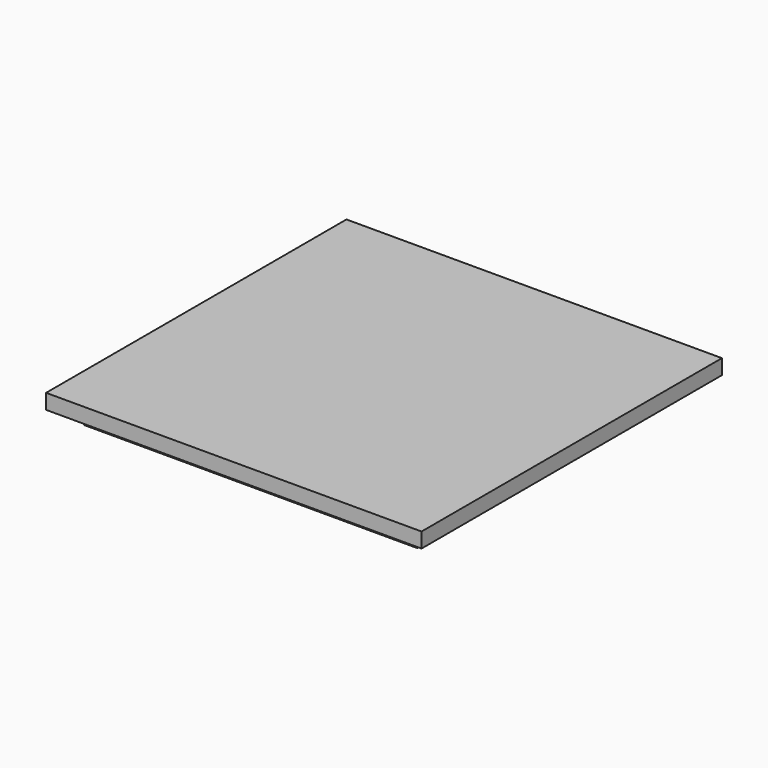
from build123d import *

# Parameters (mm, degrees)
F0_W      = 44.4
F0_H      = 44.4
F1_DEPTH  = 2
F0_W_2    = 50
F0_H_2    = 50
F1_FACE_W = 44.4
F1_FACE_H = 44.4
F2_DEPTH  = 2


with BuildPart() as f1:
    # F0 (on Top) → F1 (new body)
    with BuildSketch(Plane.XY):
        Rectangle(F0_W, F0_H)
    extrude(amount=-F1_DEPTH)

    # F0 (on Top) + F1_face (on face) → F2 (join)
    with BuildSketch(Plane.XY):
        Rectangle(F0_W_2, F0_H_2)
        Rectangle(F0_W, F0_H, mode=Mode.SUBTRACT)
    with BuildSketch(Plane.XY):
        Rectangle(F1_FACE_W, F1_FACE_H)
    extrude(amount=F2_DEPTH)


solid = f1.part
